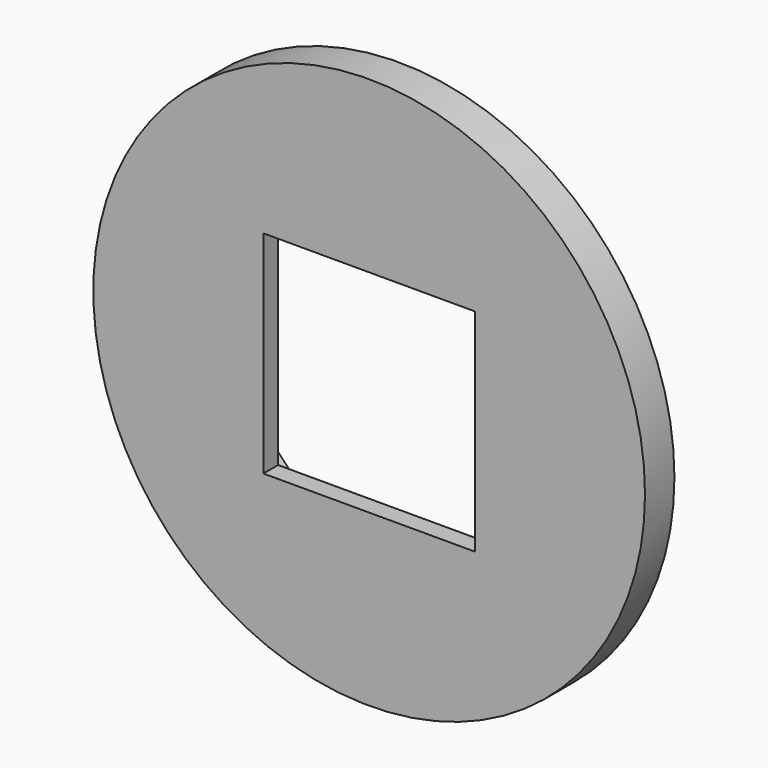
from build123d import *

# Parameters (mm, degrees)
F0_R     = 30
F0_W     = 23
F0_H     = 23
F1_DEPTH = 4
F2_R     = 17.5
F2_W     = 23
F2_H     = 23
F3_DEPTH = 2


with BuildPart() as f1:
    # F0 (on Front) → F1 (new body)
    with BuildSketch(Plane.XZ):
        Circle(F0_R)
        Rectangle(F0_W, F0_H, mode=Mode.SUBTRACT)
    extrude(amount=F1_DEPTH)

    # F2 (on face) → F3 (cut)
    with BuildSketch(Plane(origin=(0, 0, 0), x_dir=(-1, 0, 0), z_dir=(0, 1, 0))):
        Circle(F2_R)
        Rectangle(F2_W, F2_H, mode=Mode.SUBTRACT)
        Circle(F2_R)
        Rectangle(F2_W, F2_H, mode=Mode.SUBTRACT)
    extrude(amount=-F3_DEPTH, mode=Mode.SUBTRACT)


solid = f1.part
